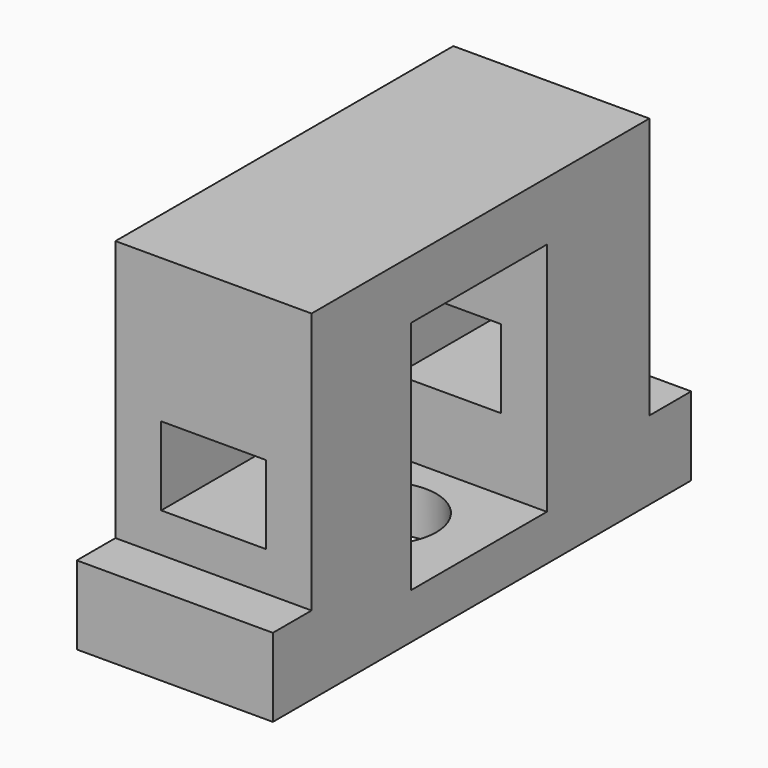
from build123d import *

# Parameters (mm, degrees)
F0_W     = 30
F0_H     = 80
F1_DEPTH = 52
F2_W     = 30
F2_H     = 8
F2_H_2   = 7.3947347701
F3_DEPTH = 40
F4_W     = 16
F4_H     = 12
F5_DEPTH = 64
F6_W     = 26
F6_H     = 36
F7_DEPTH = 30
F8_R     = 8
F9_DEPTH = 9


with BuildPart() as f1:
    # F0 (on Top) → F1 (new body)
    with BuildSketch(Plane.XY):
        with Locations((15, 40)):
            Rectangle(F0_W, F0_H)
    extrude(amount=F1_DEPTH)

    # F2 (on face) → F3 (cut)
    with BuildSketch(Plane.XY.offset(52)):
        with Locations((15, 76)):
            Rectangle(F2_W, F2_H)
        with Locations((15, 3.697367385)):
            Rectangle(F2_W, F2_H_2)
    extrude(amount=-F3_DEPTH, mode=Mode.SUBTRACT)

    # F4 (on face) → F5 (cut)
    with BuildSketch(Plane.XZ.offset(-7.3947347701)):
        with Locations((15, 24)):
            Rectangle(F4_W, F4_H)
    extrude(amount=-F5_DEPTH, mode=Mode.SUBTRACT)

    # F6 (on face) → F7 (cut)
    with BuildSketch(Plane.YZ.offset(30)):
        with Locations((39.3947347701, 25)):
            Rectangle(F6_W, F6_H)
    extrude(amount=-F7_DEPTH, mode=Mode.SUBTRACT)

    # F8 (on face) → F9 (cut)
    with BuildSketch(Plane(origin=(0, 0, 0), x_dir=(1, 0, 0), z_dir=(0, 0, -1))):
        with Locations((15, -40)):
            Circle(F8_R)
    extrude(amount=-F9_DEPTH, mode=Mode.SUBTRACT)


solid = f1.part
